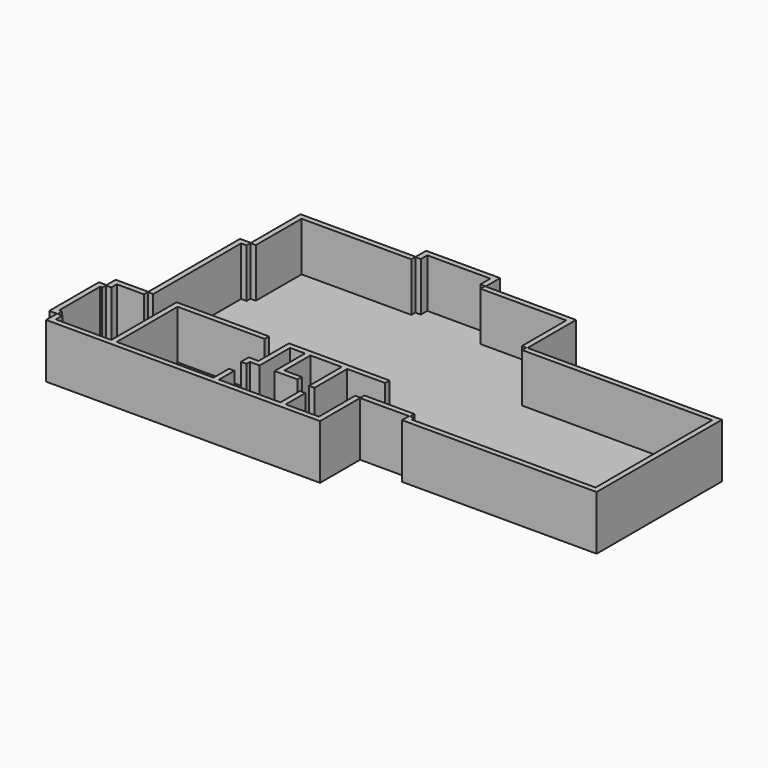
from build123d import *

# Parameters (mm, degrees)
F0_W      = 6
F0_H      = 0.002
F0_W_2    = 1.4
F0_H_2    = 11.4
F0_W_3    = 13.6
F0_H_3    = 0.08
F0_H_4    = 16.002
F0_W_4    = 8.8
F0_H_5    = 21.098
F0_W_5    = 7.6
F0_H_6    = 7.8852218396
F1_DEPTH  = 1
F2_W      = 11.4
F2_H      = 9
F3_DEPTH  = 1
F4_W      = 1.4
F4_H      = 10
F5_DEPTH  = 1
F6_W      = 2.2483316878
F6_H      = 10
F7_DEPTH  = 1
F8_W      = 6
F8_H      = 10
F9_DEPTH  = 1
F10_W     = 21.2175605533
F10_H     = 10
F11_DEPTH = 1
F12_W     = 2
F12_H     = 10
F13_DEPTH = 1
F14_W     = 11.5231698511
F14_H     = 10
F15_DEPTH = 1
F16_W     = 21.2
F16_H     = 10
F17_DEPTH = 1
F18_W     = 2.4870870446
F18_H     = 10
F19_DEPTH = 1
F20_W     = 13.6
F20_H     = 10
F21_DEPTH = 1
F22_W     = 3.2888815676
F22_H     = 10
F23_DEPTH = 1
F24_W     = 16.7565354139
F24_H     = 9.9645610899
F25_DEPTH = 1
F26_W     = 11.2111184324
F26_H     = 9.9645610899
F27_DEPTH = 1
F28_W     = 35.9614706893
F28_H     = 10
F29_DEPTH = 1
F30_W     = 28.8
F30_H     = 10
F31_DEPTH = 1
F32_W     = 35.8
F32_H     = 10
F33_DEPTH = 1
F34_W     = 1.6
F34_H     = 10
F35_DEPTH = 1
F36_W     = 9.1939088942
F36_H     = 10
F37_DEPTH = 1
F38_W     = 9.3250730319
F38_H     = 10
F39_DEPTH = 1
F40_W     = 49.9146888159
F40_H     = 10
F41_DEPTH = 1
F42_W     = 50.4
F42_H     = 10
F43_DEPTH = 25.4
F44_W     = 2.4892
F44_H     = 10
F45_DEPTH = 1
F46_W     = 1.5276186168
F46_H     = 10
F47_DEPTH = 1
F48_W     = 8
F48_H     = 32.498
F49_DEPTH = 1
F50_W     = 1
F50_H     = 15
F50_H_2   = 1
F50_W_2   = 15.9833405107
F50_H_3   = 4.55
F50_H_4   = 2.7679902027
F50_H_5   = 0.7820097973
F50_H_6   = 6
F50_W_3   = 2.749538143
F50_H_7   = 7.5
F50_W_4   = 3.1995763704
F50_H_8   = 2.0981409718
F50_H_9   = 5.5018590282
F51_DEPTH = 9
F52_DEPTH = 9
F53_DEPTH = 9


with BuildPart() as f1:
    # F0 (on Top) → F1 (new body)
    with BuildSketch(Plane.XY):
        with Locations((-48.6298836529, -21.6088678897)):
            Rectangle(F0_W, F0_H)
        Polygon((-45.6298836529, -21.6098678897), (-51.6298836529, -21.6098678897), (-51.6298836529, -23.7206678897), (-51.6298836529, -35.1206678897), (-51.6298836529, -37.6098678897), (-40.4298836529, -37.6098678897), (-40.4298836529, -21.6098678897), align=None)
        Polygon((-45.6298836529, -21.6078678897), (-45.6298836529, -21.6098678897), (-40.4298836529, -21.6098678897), (-31.2298836529, -21.6098678897), (-31.2298836529, -21.6078678897), align=None)
        with Locations((-52.3298836529, -29.4206678897)):
            Rectangle(F0_W_2, F0_H_2)
        Polygon((-31.2298836529, -21.6098678897), (-40.4298836529, -21.6098678897), (-40.4298836529, -37.6098678897), (-22.4298836529, -37.6098678897), (-22.4298836529, -21.6078678897), (-31.2298836529, -21.6078678897), align=None)
        Polygon((-45.6298836529, -0.5098678897), (-45.6298836529, -21.6078678897), (-31.2298836529, -21.6078678897), (-31.2298836529, -0.5098678897), (-43.6298836529, -0.5098678897), align=None)
        with Locations((-15.6298836529, -37.6498678897)):
            Rectangle(F0_W_3, F0_H_3)
        with Locations((-15.6298836529, -29.6088678897)):
            Rectangle(F0_W_3, F0_H_4)
        Polygon((-43.6298836529, 10.8901321103), (-43.6298836529, -0.5098678897), (-31.2298836529, -0.5098678897), (-22.4298836529, -0.5098678897), (-22.4298836529, 10.8901321103), align=None)
        Polygon((-22.4298836529, -0.5098678897), (-22.4298836529, -21.6078678897), (-8.8298836529, -21.6078678897), (-8.8298836529, -13.7226460502), (-8.8298836529, 10.0012505427), (-8.8298836529, 13.2901321103), (-22.4298836529, 13.2901321103), (-22.4298836529, 10.8901321103), align=None)
        Polygon((-8.8298836529, -21.6078678897), (-8.8298836529, -37.6098678897), (-1.2298836529, -37.6098678897), (-1.2298836529, -28.4098678897), (-1.2298836529, -21.6078678897), align=None)
        Polygon((-8.8298836529, 10.0012505427), (-8.8298836529, -13.7226460502), (-1.2298836529, -13.7226460502), (7.7701163471, -13.7226460502), (7.7701163471, -1.2098678897), (7.7701163471, 10.0012505427), align=None)
        Polygon((-1.2298836529, -13.7226460502), (-1.2298836529, -21.6078678897), (-1.2298836529, -28.4098678897), (7.7701163471, -28.4098678897), (7.7701163471, -13.7226460502), align=None)
        Polygon((7.7701163471, -13.7226460502), (7.7701163471, -28.4098678897), (7.7701163471, -30.0098678897), (43.5701163471, -30.0098678897), (43.5701163471, -1.2098678897), (7.7701163471, -1.2098678897), align=None)
        with Locations((-26.8298836529, -11.0588678897)):
            Rectangle(F0_W_4, F0_H_5)
        with Locations((-5.0298836529, -17.6652569699)):
            Rectangle(F0_W_5, F0_H_6)
    extrude(amount=F1_DEPTH)

    # F2 (on face) → F3 (join)
    with BuildSketch(Plane(origin=(-53.0298836529, 0, 0), x_dir=(0, -1, 0), z_dir=(-1, 0, 0))):
        with Locations((29.4206678897, 5.5)):
            Rectangle(F2_W, F2_H)
    extrude(amount=-F3_DEPTH)

    # F4 (on face) → F5 (join)
    with BuildSketch(Plane(origin=(0, -23.7206678897, 0), x_dir=(-1, 0, 0), z_dir=(0, 1, 0))):
        with Locations((52.3298836529, 5)):
            Rectangle(F4_W, F4_H)
    extrude(amount=-F5_DEPTH)

    # F6 (on face) → F7 (join)
    with BuildSketch(Plane(origin=(-51.6298836529, 0, 0), x_dir=(0, -1, 0), z_dir=(-1, 0, 0))):
        with Locations((22.7320337336, 5)):
            Rectangle(F6_W, F6_H)
    extrude(amount=-F7_DEPTH)

    # F8 (on face) → F9 (join)
    with BuildSketch(Plane(origin=(0, -21.6078678897, 0), x_dir=(-1, 0, 0), z_dir=(0, 1, 0))):
        with Locations((48.6298836529, 5)):
            Rectangle(F8_W, F8_H)
    extrude(amount=-F9_DEPTH)

    # F10 (on face) → F11 (join)
    with BuildSketch(Plane(origin=(-45.6298836529, 0, 0), x_dir=(0, -1, 0), z_dir=(-1, 0, 0))):
        with Locations((11.1186481663, 5)):
            Rectangle(F10_W, F10_H)
    extrude(amount=-F11_DEPTH)

    # F12 (on face) → F13 (join)
    with BuildSketch(Plane(origin=(0, -0.5098678897, 0), x_dir=(-1, 0, 0), z_dir=(0, 1, 0))):
        with Locations((44.6298836529, 5)):
            Rectangle(F12_W, F12_H)
    extrude(amount=-F13_DEPTH)

    # F14 (on face) → F15 (join)
    with BuildSketch(Plane(origin=(-43.6298836529, 0, 0), x_dir=(0, -1, 0), z_dir=(-1, 0, 0))):
        with Locations((-5.1285471847, 5)):
            Rectangle(F14_W, F14_H)
    extrude(amount=-F15_DEPTH)

    # F16 (on face) → F17 (join)
    with BuildSketch(Plane(origin=(0, 10.8901321103, 0), x_dir=(-1, 0, 0), z_dir=(0, 1, 0))):
        with Locations((33.0298836529, 5)):
            Rectangle(F16_W, F16_H)
    extrude(amount=-F17_DEPTH)

    # F18 (on face) → F19 (join)
    with BuildSketch(Plane(origin=(-22.4298836529, 0, 0), x_dir=(0, -1, 0), z_dir=(-1, 0, 0))):
        with Locations((-12.046588588, 5)):
            Rectangle(F18_W, F18_H)
    extrude(amount=-F19_DEPTH)

    # F20 (on face) → F21 (join)
    with BuildSketch(Plane(origin=(0, 13.2901321103, 0), x_dir=(-1, 0, 0), z_dir=(0, 1, 0))):
        with Locations((15.6298836529, 5)):
            Rectangle(F20_W, F20_H)
    extrude(amount=-F21_DEPTH)

    # F22 (on face) → F23 (join)
    with BuildSketch(Plane.YZ.offset(-8.8298836529)):
        with Locations((11.6456913265, 5)):
            Rectangle(F22_W, F22_H)
    extrude(amount=-F23_DEPTH)

    # F24 (on face) → F25 (join)
    with BuildSketch(Plane(origin=(0, 10.0012505427, 0), x_dir=(-1, 0, 0), z_dir=(0, 1, 0))):
        with Locations((0.6081513599, 4.9822805449)):
            Rectangle(F24_W, F24_H)
    extrude(amount=-F25_DEPTH)

    # F26 (on face) → F27 (join)
    with BuildSketch(Plane.YZ.offset(7.7701163471)):
        with Locations((4.3956913265, 4.9822805449)):
            Rectangle(F26_W, F26_H)
    extrude(amount=-F27_DEPTH)

    # F28 (on face) → F29 (join)
    with BuildSketch(Plane(origin=(0, -1.2098678897, 0), x_dir=(-1, 0, 0), z_dir=(0, 1, 0))):
        with Locations((-25.5893810024, 5)):
            Rectangle(F28_W, F28_H)
    extrude(amount=-F29_DEPTH)

    # F30 (on face) → F31 (join)
    with BuildSketch(Plane.YZ.offset(43.5701163471)):
        with Locations((-15.6098678897, 5)):
            Rectangle(F30_W, F30_H)
    extrude(amount=-F31_DEPTH)

    # F32 (on face) → F33 (join)
    with BuildSketch(Plane.XZ.offset(30.0098678897)):
        with Locations((25.6701163471, 5)):
            Rectangle(F32_W, F32_H)
    extrude(amount=-F33_DEPTH)

    # F34 (on face) → F35 (join)
    with BuildSketch(Plane(origin=(7.7701163471, 0, 0), x_dir=(0, -1, 0), z_dir=(-1, 0, 0))):
        with Locations((29.2098678897, 5)):
            Rectangle(F34_W, F34_H)
    extrude(amount=-F35_DEPTH)

    # F36 (on face) → F37 (join)
    with BuildSketch(Plane.XZ.offset(28.4098678897)):
        with Locations((3.3670707942, 5)):
            Rectangle(F36_W, F36_H)
    extrude(amount=-F37_DEPTH)

    # F38 (on face) → F39 (join)
    with BuildSketch(Plane.YZ.offset(-1.2298836529)):
        with Locations((-32.9473313738, 5)):
            Rectangle(F38_W, F38_H)
    extrude(amount=-F39_DEPTH)

    # F40 (on face) → F41 (join)
    with BuildSketch(Plane.XZ.offset(37.6098678897)):
        with Locations((-26.672539245, 5)):
            Rectangle(F40_W, F40_H)
    extrude(amount=-F41_DEPTH)

    # F42 (on face) → F43 (cut)
    with BuildSketch(Plane.XZ.offset(37.6098678897)):
        with Locations((-26.4298836529, 5)):
            Rectangle(F42_W, F42_H)
    extrude(amount=F43_DEPTH, mode=Mode.SUBTRACT)

    # F44 (on face) → F45 (join)
    with BuildSketch(Plane(origin=(-51.6298836529, 0, 0), x_dir=(0, -1, 0), z_dir=(-1, 0, 0))):
        with Locations((36.3652678897, 5)):
            Rectangle(F44_W, F44_H)
    extrude(amount=-F45_DEPTH)

    # F46 (on face) → F47 (join)
    with BuildSketch(Plane.XZ.offset(35.1206678897)):
        with Locations((-52.2660743445, 5)):
            Rectangle(F46_W, F46_H)
    extrude(amount=-F47_DEPTH)

    # F48 (on Top) → F49 (join)
    with BuildSketch(Plane.XY):
        with Locations((-47.6298836529, -5.3588678897)):
            Rectangle(F48_W, F48_H)
    extrude(amount=F49_DEPTH)

    # F50 (on face) → F51 (join)
    with BuildSketch(Plane.XY.offset(1)):
        with Locations((-39.9298836529, -30.1098678897)):
            Rectangle(F50_W, F50_H)
        with Locations((-39.9298836529, -22.1098678897)):
            Rectangle(F50_W, F50_H_2)
        with Locations((-31.4382133976, -22.1098678897)):
            Rectangle(F50_W_2, F50_H_2)
        with Locations((-21.1280035675, -35.3348678897)):
            Rectangle(F50_W, F50_H_3)
        with Locations((-21.1280035675, -31.6758727883)):
            Rectangle(F50_W, F50_H_4)
        with Locations((-21.1280035675, -29.9008727883)):
            Rectangle(F50_W, F50_H_5)
        with Locations((-21.1280035675, -29.0098678897)):
            Rectangle(F50_W, F50_H_2)
        Polygon((-20.6280035675, -28.5098678897), (-20.6280035675, -29.5098678897), (-18.8280035675, -29.5098678897), (-18.8280035675, -28.5098678897), (-19.8280035675, -28.5098678897), align=None)
        with Locations((-19.3280035675, -25.5098678897)):
            Rectangle(F50_W, F50_H_6)
        with Locations((-19.3280035675, -22.0098678897)):
            Rectangle(F50_W, F50_H_2)
        with Locations((-17.4532344959, -22.0098678897)):
            Rectangle(F50_W_3, F50_H_2)
        with Locations((-15.5784654244, -22.0098678897)):
            Rectangle(F50_W, F50_H_2)
        with Locations((-15.5784654244, -25.5098678897)):
            Rectangle(F50_W, F50_H_6)
        Polygon((-15.0784654244, -21.5098678897), (-15.0784654244, -22.5098678897), (-9.3298836529, -22.5098678897), (-9.3298836529, -22.4098678897), (-8.3298836529, -22.4098678897), (-8.3298836529, -21.5098678897), align=None)
        with Locations((-15.5784654244, -29.0098678897)):
            Rectangle(F50_W, F50_H_2)
        with Locations((-8.8298836529, -26.2598678897)):
            Rectangle(F50_W, F50_H_7)
        Polygon((-9.3298836529, -22.4098678897), (-9.3298836529, -22.5098678897), (-8.3298836529, -22.5098678897), (-8.3298836529, -22.5030053407), (-8.3298836529, -22.4098678897), align=None)
        with Locations((-13.4786772393, -29.0098678897)):
            Rectangle(F50_W_4, F50_H_2)
        Polygon((-1.3298836529, -21.5098678897), (-8.3298836529, -21.5098678897), (-8.3298836529, -22.4098678897), (-8.3298836529, -22.5030053407), (-1.3298836529, -22.5030053407), align=None)
        with Locations((-8.8298836529, -31.0589383756)):
            Rectangle(F50_W, F50_H_8)
        with Locations((-8.8298836529, -34.8589383756)):
            Rectangle(F50_W, F50_H_9)
    extrude(amount=F51_DEPTH)

    # F50 (on face) → F52 (cut)
    with BuildSketch(Plane.XY.offset(1)):
        with Locations((-21.1280035675, -31.6758727883)):
            Rectangle(F50_W, F50_H_4)
    extrude(amount=F52_DEPTH, mode=Mode.SUBTRACT)

    # F50 (on face) → F53 (cut)
    with BuildSketch(Plane.XY.offset(1)):
        with Locations((-8.8298836529, -31.0589383756)):
            Rectangle(F50_W, F50_H_8)
    extrude(amount=F53_DEPTH, mode=Mode.SUBTRACT)


solid = f1.part
